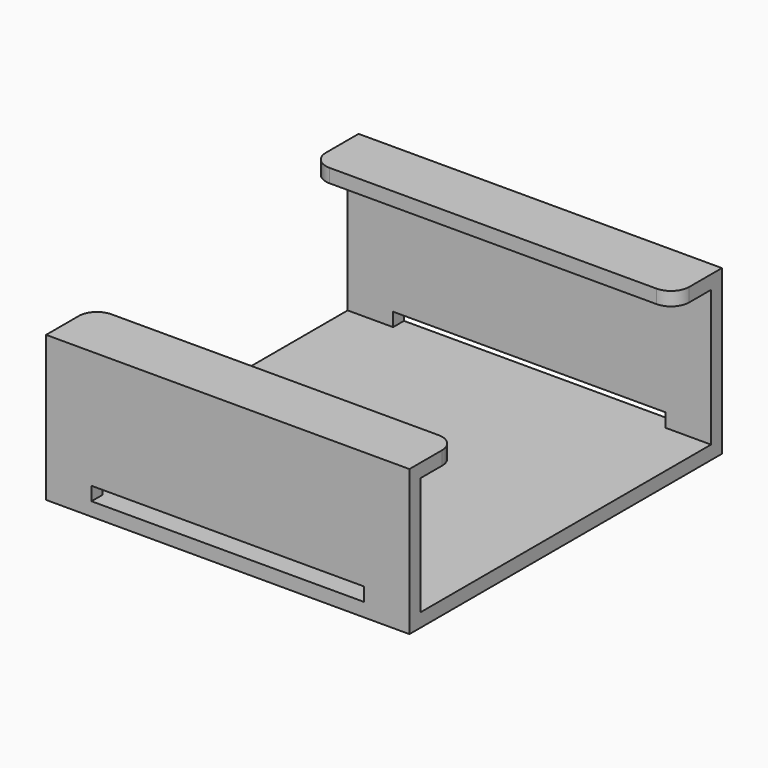
from build123d import *

# Parameters (mm, degrees)
F0_W      = 40
F0_H      = 43
F1_DEPTH  = 1.5
F2_W      = 40
F2_H      = 1.5
F3_DEPTH  = 14.5
F4_W      = 40
F4_H      = 1.5
F5_DEPTH  = 16.5
F6_W      = 40
F6_H      = 1.5
F7_DEPTH  = 5
F8_W      = 40
F8_H      = 1.5
F9_DEPTH  = 5
F10_W     = 30
F10_H     = 1.5
F11_DEPTH = 44
F12_R     = 2


with BuildPart() as f1:
    # F0 (on Top) → F1 (new body)
    with BuildSketch(Plane.XY):
        Rectangle(F0_W, F0_H)
    extrude(amount=F1_DEPTH)

    # F2 (on face) → F3 (join)
    with BuildSketch(Plane.XY.offset(1.5)):
        with Locations((0, -20.75)):
            Rectangle(F2_W, F2_H)
    extrude(amount=F3_DEPTH)

    # F4 (on face) → F5 (join)
    with BuildSketch(Plane.XY.offset(1.5)):
        with Locations((0, 20.75)):
            Rectangle(F4_W, F4_H)
    extrude(amount=F5_DEPTH)

    # F6 (on face) → F7 (join)
    with BuildSketch(Plane.XZ.offset(-20)):
        with Locations((0, 17.25)):
            Rectangle(F6_W, F6_H)
    extrude(amount=F7_DEPTH)

    # F8 (on face) → F9 (join)
    with BuildSketch(Plane(origin=(0, -20, 0), x_dir=(-1, 0, 0), z_dir=(0, 1, 0))):
        with Locations((0, 15.25)):
            Rectangle(F8_W, F8_H)
    extrude(amount=F9_DEPTH)

    # F10 (on face) → F11 (cut)
    with BuildSketch(Plane.XZ.offset(21.5)):
        with Locations((0, 2.25)):
            Rectangle(F10_W, F10_H)
    extrude(amount=-F11_DEPTH, mode=Mode.SUBTRACT)

    # F12
    f12_edges = [f1.edges().sort_by_distance(p)[0] for p in [
        (20, 15, 17.25),
        (20, -15, 15.25),
        (-20, 15, 17.25),
        (-20, -15, 15.25),
    ]]
    fillet(f12_edges, radius=F12_R)


solid = f1.part
